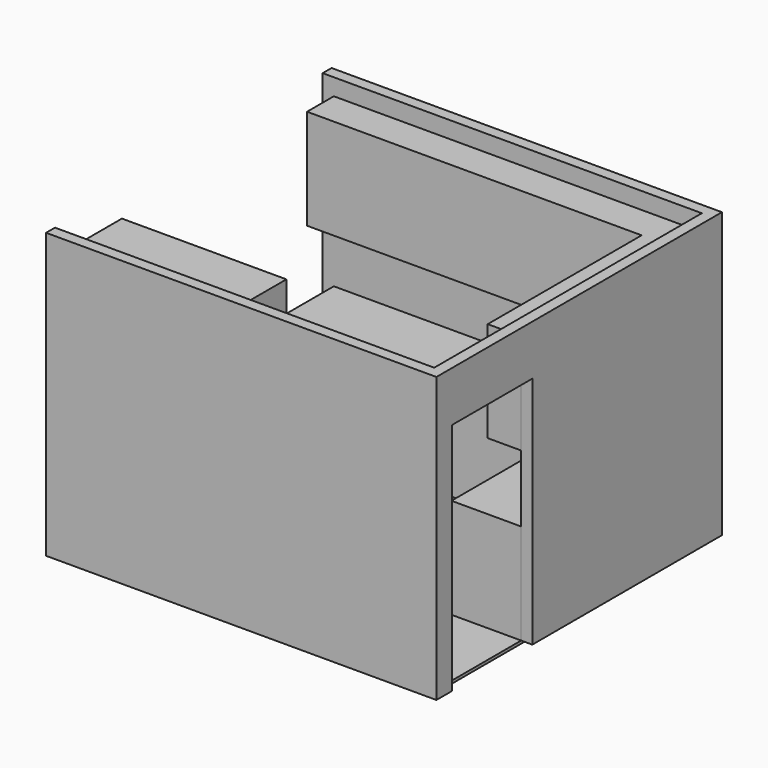
from build123d import *

# Parameters (mm, degrees)
F0_W      = 3352.8
F0_H      = 3048
F1_DEPTH  = 25.4
F2_W      = 3556
F2_H      = 3251.2
F2_W_2    = 3352.8
F2_H_2    = 3048
F3_DEPTH  = 2590.8
F4_W      = 914.4
F4_H      = 2133.6
F5_DEPTH  = 101.6
F6_W      = 3048
F6_H      = 2590.8
F7_DEPTH  = 101.6
F9_DEPTH  = 914.4
F12_DEPTH = 914.4
F13_W     = 762
F13_H     = 635
F14_DEPTH = 1676.4
F15_W     = 609.6
F15_H     = 635
F16_DEPTH = 1701.8
F15_W_2   = 76.2
F17_W     = 1498.6
F17_H     = 635
F18_DEPTH = 736.6


with BuildPart() as f1:
    # F0 (on Top) → F1 (new body)
    with BuildSketch(Plane.XY):
        Rectangle(F0_W, F0_H)
    extrude(amount=F1_DEPTH)


with BuildPart() as f3:
    # F2 (on face) → F3 (new body)
    with BuildSketch(Plane.XY.offset(25.4)):
        Rectangle(F2_W, F2_H)
        Rectangle(F2_W_2, F2_H_2, mode=Mode.SUBTRACT)
    extrude(amount=F3_DEPTH)

    # F4 (on face) → F5 (cut, through all)
    with BuildSketch(Plane(origin=(1676.4, 0, 0), x_dir=(0, -1, 0), z_dir=(-1, 0, 0))):
        with Locations((990.6, 1092.2)):
            Rectangle(F4_W, F4_H)
    extrude(amount=-F5_DEPTH, mode=Mode.SUBTRACT)

    # F6 (on face) → F7 (cut, through all)
    with BuildSketch(Plane.YZ.offset(-1676.4)):
        with Locations((0, 1320.8)):
            Rectangle(F6_W, F6_H)
    extrude(amount=-F7_DEPTH, mode=Mode.SUBTRACT)


with BuildPart() as f9:
    # F8 (on face) → F9 (new body)
    with BuildSketch(Plane.XY.offset(25.4)):
        Polygon((1041.4, -533.4), (1676.4, -533.4), (1676.4, 1524), (-1676.4, 1524), (-1676.4, 889), (1041.4, 889), align=None)
    extrude(amount=F9_DEPTH)


with BuildPart() as f12:
    # F11 (on offset) → F12 (new body)
    with BuildSketch(Plane.XY.offset(1549.4)):
        Polygon((1676.4, 1524), (-1676.4, 1524), (-1676.4, 1219.2), (1371.6, 1219.2), (1371.6, -533.4), (1676.4, -533.4), align=None)
    extrude(amount=F12_DEPTH)


with BuildPart() as f14:
    # F13 (on face) → F14 (new body)
    with BuildSketch(Plane.XY.offset(25.4)):
        with Locations((-1193.8, -1206.5)):
            Rectangle(F13_W, F13_H)
    extrude(amount=F14_DEPTH)


with BuildPart() as f16:
    # F15 (on face) → F16 (new body)
    with BuildSketch(Plane.XY.offset(25.4)):
        with Locations((-482.6, -1206.5)):
            Rectangle(F15_W, F15_H)
    extrude(amount=F16_DEPTH)



with BuildPart() as f16b:
    # F15 (on face) → F16, piece 2 (new body)
    with BuildSketch(Plane.XY.offset(25.4)):
        with Locations((-1638.3, -1206.5)):
            Rectangle(F15_W_2, F15_H)
    extrude(amount=F16_DEPTH)


with BuildPart() as f16_1:
    add(f16.part)

    add(f16b.part)  # F18 merges F16b
    # F17 (on face) → F18 (join, through all)
    with BuildSketch(Plane.XY.offset(1727.2)):
        with Locations((-927.1, -1206.5)):
            Rectangle(F17_W, F17_H)
    extrude(amount=F18_DEPTH)


solid = Compound([f1.part, f3.part, f9.part, f12.part, f14.part, f16_1.part])
